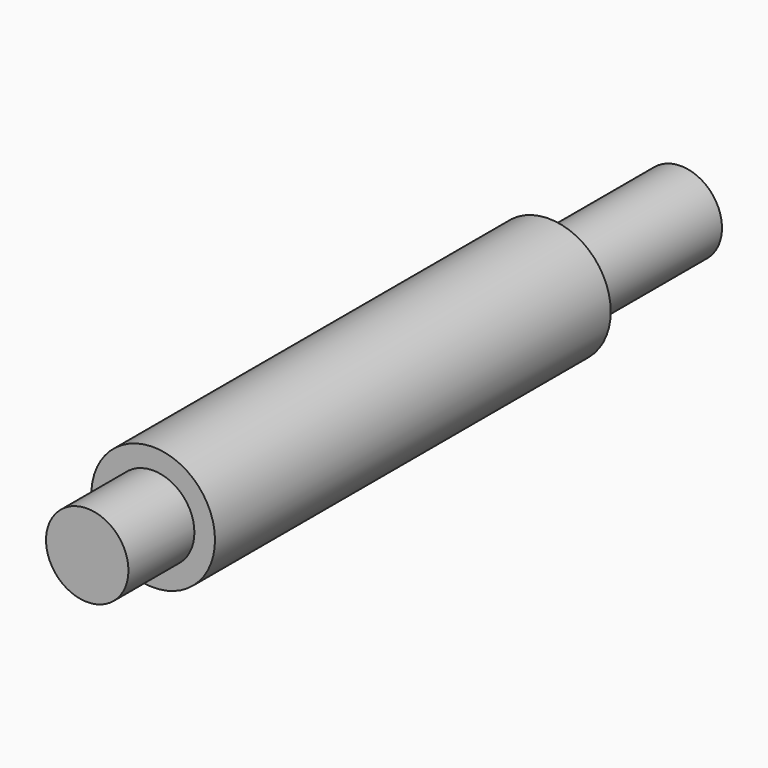
from build123d import *

# Parameters (mm, degrees)
F0_R     = 9.525
F0_R_2   = 6.35
F1_DEPTH = 114.3
F2_R     = 9.525
F2_R_2   = 6.35
F3_DEPTH = 12.7
F4_R     = 9.525
F4_R_2   = 6.35
F5_DEPTH = 25.4


with BuildPart() as f1:
    # F0 (on Front) → F1 (new body)
    with BuildSketch(Plane.XZ):
        Circle(F0_R)
        Circle(F0_R_2, mode=Mode.SUBTRACT)
        Circle(F0_R_2)
    extrude(amount=F1_DEPTH)

    # F2 (on face) → F3 (cut)
    with BuildSketch(Plane.XZ.offset(114.3)):
        Circle(F2_R)
        Circle(F2_R_2, mode=Mode.SUBTRACT)
    extrude(amount=-F3_DEPTH, mode=Mode.SUBTRACT)

    # F4 (on face) → F5 (cut)
    with BuildSketch(Plane(origin=(0, 0, 0), x_dir=(-1, 0, 0), z_dir=(0, 1, 0))):
        Circle(F4_R)
        Circle(F4_R_2, mode=Mode.SUBTRACT)
    extrude(amount=-F5_DEPTH, mode=Mode.SUBTRACT)


solid = f1.part
